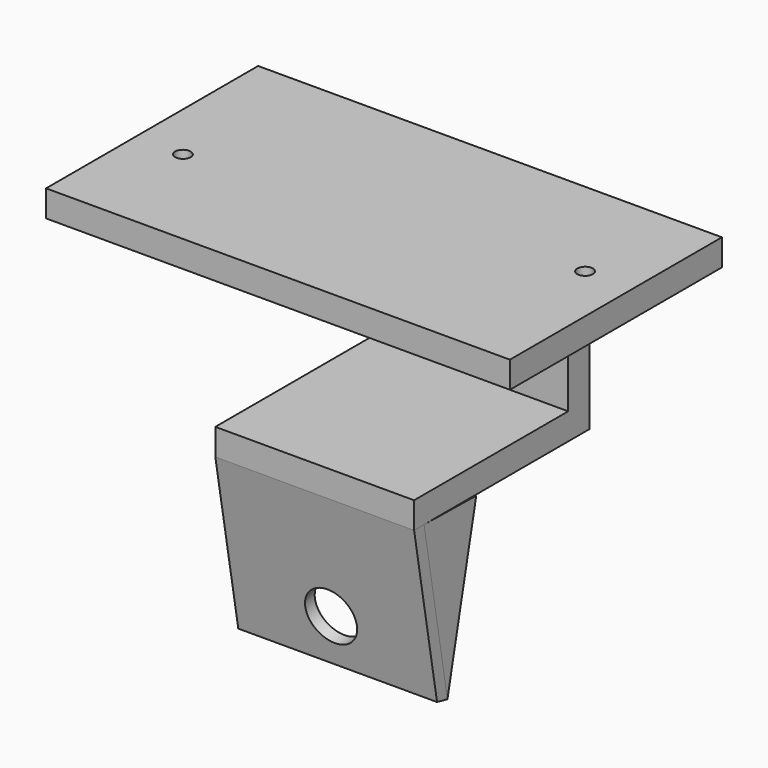
from build123d import *

# Parameters (mm, degrees)
F1_W      = 88.9
F1_H      = 50.8
F1_R      = 1.4859
F2_DEPTH  = 5.08
F3_W      = 38.1
F3_H      = 5.08
F4_DEPTH  = 30.48
F5_W      = 38.1
F5_H      = 36.9214013798
F5_H_2    = 5.08
F6_DEPTH  = 5.08
F8_DEPTH  = 38.1
F10_D     = 9.906
F12_DEPTH = 2.54
F14_DEPTH = 2.54


with BuildPart() as f2:
    # F1 (on Top) → F2 (new body)
    with BuildSketch(Plane.XY):
        Rectangle(F1_W, F1_H)
        with Locations((-35.3441, -4.0005)):
            Circle(F1_R, mode=Mode.SUBTRACT)
        with Locations((35.3441, 4.0005)):
            Circle(F1_R, mode=Mode.SUBTRACT)
    extrude(amount=F2_DEPTH)

    # F3 (on face) → F4 (join)
    with BuildSketch(Plane(origin=(0, 0, 0), x_dir=(1, 0, 0), z_dir=(0, 0, -1))):
        with Locations((0, -22.86)):
            Rectangle(F3_W, F3_H)
    extrude(amount=F4_DEPTH)

    # F5 (on face) → F6 (join)
    with BuildSketch(Plane(origin=(0, 0, -30.48), x_dir=(1, 0, 0), z_dir=(0, 0, -1))):
        with Locations((0, -1.8592993101)):
            Rectangle(F5_W, F5_H)
        with Locations((0, -22.86)):
            Rectangle(F5_W, F5_H_2)
    extrude(amount=F6_DEPTH)


with BuildPart() as f8:
    # F7 (on face) → F8 (new body)
    with BuildSketch(Plane.YZ.offset(19.05)):
        Polygon((-14.2159419584, -35.56), (-16.6014013798, -35.56), (-11.0987988182, -66.7668098681), (-8.6175603209, -67.31), align=None)
    extrude(amount=-F8_DEPTH)

    # F10 (through all)
    with Locations(Plane(origin=(0, -22.1819260239, -3.9112720421), x_dir=(1, 0, 0), z_dir=(0, -0.984807753, -0.1736481777))):
        with Locations((0, -54.7579862096)):
            Hole(F10_D / 2)

    # F13 (on face) → F14 (join)
    with BuildSketch(Plane(origin=(-19.05, 0, 0), x_dir=(0, -1, 0), z_dir=(-1, 0, 0))):
        Polygon((1.6820278631, -35.629177536), (8.6175603209, -67.31), (14.2159419584, -35.56), align=None)
    extrude(amount=-F14_DEPTH)


with BuildPart() as f12:
    # F11 (on face) → F12 (new body)
    with BuildSketch(Plane.YZ.offset(19.05)):
        Polygon((-14.2159419584, -35.56), (-8.6175603209, -67.31), (-1.7115654359, -35.7641022312), align=None)
    extrude(amount=-F12_DEPTH)


solid = Compound([f2.part, f8.part, f12.part])
